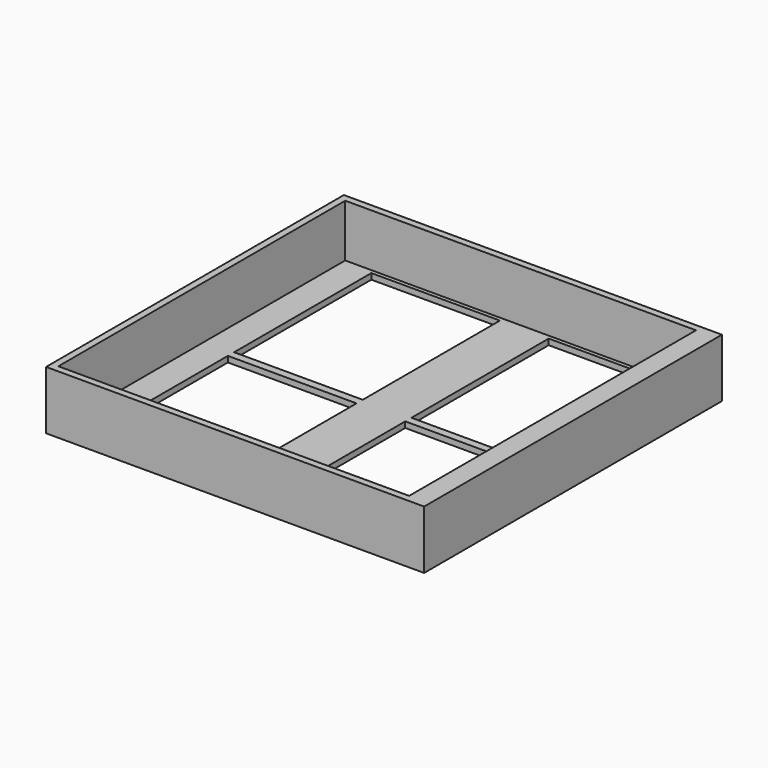
from build123d import *

# Parameters (mm, degrees)
SKETCH_W                        = 194
SKETCH_H                        = 191
PAD_DEPTH                       = 30
SKETCH001_W                     = 180
SKETCH001_H                     = 184
POCKET_DEPTH                    = 27
SKETCH002_W                     = 66
SKETCH002_H                     = 88
POCKET001_DEPTH                 = 5
SKETCH002_LINEARPATTERN_2_W     = 66
SKETCH002_LINEARPATTERN_2_H     = 88
POCKET001_LINEARPATTERN_2_DEPTH = 5
LINEARPATTERN001_COUNT          = 2
LINEARPATTERN001_PITCH          = 92


with BuildPart() as part:
    # Sketch → Pad (new body)
    with BuildSketch(Plane.XY):
        with Locations((97, 95.5)):
            Rectangle(SKETCH_W, SKETCH_H)
    extrude(amount=PAD_DEPTH)

    # Sketch001 (on Face6 of Pad) → Pocket (cut)
    with BuildSketch(Plane.XY.offset(30)):
        with Locations((93.5, 95.5)):
            Rectangle(SKETCH001_W, SKETCH001_H)
    extrude(amount=-POCKET_DEPTH, mode=Mode.SUBTRACT)

    # Sketch002 (on Face11 of Pocket) → Pocket001 (cut)
    with BuildSketch(Plane.XY.offset(3)):
        with Locations((51.5, 141.5)):
            Rectangle(SKETCH002_W, SKETCH002_H)
    pocket001 = extrude(amount=-POCKET001_DEPTH, mode=Mode.SUBTRACT)

    # Sketch002 LinearPattern 2 → Pocket001 LinearPattern 2 (cut)
    with BuildSketch(Plane(origin=(91, 0, 3), x_dir=(1, 0, 0), z_dir=(0, 0, 1))):
        with Locations((51.5, 141.5)):
            Rectangle(SKETCH002_LINEARPATTERN_2_W, SKETCH002_LINEARPATTERN_2_H)
    pocket001_linearpattern_2 = extrude(amount=-POCKET001_LINEARPATTERN_2_DEPTH, mode=Mode.SUBTRACT)

    # LinearPattern001: Pocket001, Pocket001 LinearPattern 2 ×2
    with Locations(*[(0, -i * LINEARPATTERN001_PITCH, 0) for i in range(1, LINEARPATTERN001_COUNT)]):
        add(pocket001, mode=Mode.SUBTRACT)
        add(pocket001_linearpattern_2, mode=Mode.SUBTRACT)


solid = part.part
